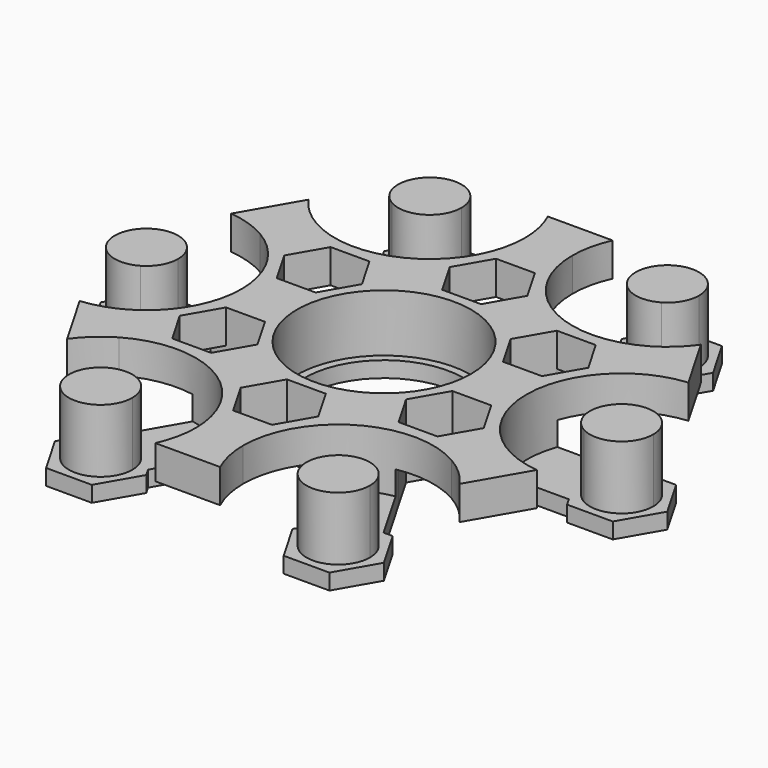
from build123d import *

# Parameters (mm, degrees)
F0_R     = 11
F0_R_2   = 10
F1_DEPTH = 2
F2_DEPTH = 7.25
F4_DEPTH = 25
F5_DEPTH = 8
F7_DEPTH = 5


with BuildPart() as f1:
    # F0 (on Top) → F1 (new body)
    with BuildSketch(Plane.XY):
        with BuildLine():
            Line((-20.5, -16.4544826719), (-21, -15.5884572681))
            ThreePointArc((-21, -15.5884572681), (-23.0780335336, -17.1069030753), (-24.7844830762, -19.0335402997))
            Line((-24.7844830762, -19.0335402997), (-24.2291065045, -19.9954807393))
            ThreePointArc((-24.2291065045, -19.9954807393), (-22.5743852182, -18.0040028363), (-20.5, -16.4544826719))
        make_face()
        with BuildLine():
            Line((-17, -22.5166604984), (-20.5, -16.4544826719))
            ThreePointArc((-20.5, -16.4544826719), (-22.5743852182, -18.0040028363), (-24.2291065045, -19.9954807393))
            Line((-24.2291065045, -19.9954807393), (-17.8867513459, -30.9807621135))
            Line((-17.8867513459, -30.9807621135), (-5.2020410289, -30.9807621135))
            ThreePointArc((-5.2020410289, -30.9807621135), (-4.304731217, -28.5519924919), (-4, -25.9807621135))
            Line((-4, -25.9807621135), (-11, -25.9807621135))
            ThreePointArc((-11, -25.9807621135), (-17, -29.4448637287), (-17, -22.5166604984))
        make_face()
        with BuildLine():
            Line((-15, -25.9807621135), (-17, -22.5166604984))
            ThreePointArc((-17, -22.5166604984), (-17, -29.4448637287), (-11, -25.9807621135))
            Line((-11, -25.9807621135), (-15, -25.9807621135))
        make_face()
        with BuildLine():
            ThreePointArc((-11, -25.9807621135), (-13, -22.5166604984), (-17, -22.5166604984))
            Line((-17, -22.5166604984), (-15, -25.9807621135))
            Line((-15, -25.9807621135), (-11, -25.9807621135))
        make_face()
        with BuildLine():
            ThreePointArc((-4, -25.9807621135), (-9.5, -16.4544826719), (-20.5, -16.4544826719))
            Line((-20.5, -16.4544826719), (-17, -22.5166604984))
            ThreePointArc((-17, -22.5166604984), (-13, -22.5166604984), (-11, -25.9807621135))
            Line((-11, -25.9807621135), (-4, -25.9807621135))
        make_face()
        with BuildLine():
            Line((-28, 3.4641016151), (-24.5, 9.5262794416))
            ThreePointArc((-24.5, 9.5262794416), (-26.8791164352, 10.5479896556), (-29.4311475334, 10.9852813742))
            Line((-29.4311475334, 10.9852813742), (-35.7735026919, 0))
            Line((-35.7735026919, 0), (-29.4311475334, -10.9852813742))
            ThreePointArc((-29.4311475334, -10.9852813742), (-26.8791164352, -10.5479896556), (-24.5, -9.5262794416))
            Line((-24.5, -9.5262794416), (-28, -3.4641016151))
            ThreePointArc((-28, -3.4641016151), (-34, 0), (-28, 3.4641016151))
        make_face()
        with BuildLine():
            ThreePointArc((-26, 0), (-26.5358983849, 2), (-28, 3.4641016151))
            Line((-28, 3.4641016151), (-30, 0))
            Line((-30, 0), (-28, -3.4641016151))
            ThreePointArc((-28, -3.4641016151), (-26.5358983849, -2), (-26, 0))
        make_face()
        with BuildLine():
            Line((-30, 0), (-28, 3.4641016151))
            ThreePointArc((-28, 3.4641016151), (-34, 0), (-28, -3.4641016151))
            Line((-28, -3.4641016151), (-30, 0))
        make_face()
        with BuildLine():
            ThreePointArc((-19, 0), (-20.4737205584, 5.5), (-24.5, 9.5262794416))
            Line((-24.5, 9.5262794416), (-28, 3.4641016151))
            ThreePointArc((-28, 3.4641016151), (-26.5358983849, 2), (-26, 0))
            ThreePointArc((-26, 0), (-26.5358983849, -2), (-28, -3.4641016151))
            Line((-28, -3.4641016151), (-24.5, -9.5262794416))
            ThreePointArc((-24.5, -9.5262794416), (-20.4737205584, -5.5), (-19, 0))
        make_face()
        with BuildLine():
            Line((3, 25.9807621135), (-3, 25.9807621135))
            ThreePointArc((-3, 25.9807621135), (-9, 15.5884572681), (-21, 15.5884572681))
            Line((-21, 15.5884572681), (-24, 10.3923048454))
            ThreePointArc((-24, 10.3923048454), (-19.6076951546, 6), (-18, 0))
            ThreePointArc((-18, 0), (-19.6076951546, -6), (-24, -10.3923048454))
            Line((-24, -10.3923048454), (-21, -15.5884572681))
            ThreePointArc((-21, -15.5884572681), (-9, -15.5884572681), (-3, -25.9807621135))
            Line((-3, -25.9807621135), (3, -25.9807621135))
            ThreePointArc((3, -25.9807621135), (9, -15.5884572681), (21, -15.5884572681))
            Line((21, -15.5884572681), (24, -10.3923048454))
            ThreePointArc((24, -10.3923048454), (18, 0), (24, 10.3923048454))
            Line((24, 10.3923048454), (21, 15.5884572681))
            ThreePointArc((21, 15.5884572681), (9, 15.5884572681), (3, 25.9807621135))
        make_face()
        Circle(F0_R, mode=Mode.SUBTRACT)
        Circle(F0_R)
        Circle(F0_R_2, mode=Mode.SUBTRACT)
        with BuildLine():
            Line((4, -25.9807621135), (3, -25.9807621135))
            ThreePointArc((3, -25.9807621135), (3.2759958765, -28.5396148471), (4.0912878854, -30.9807621135))
            Line((4.0912878854, -30.9807621135), (5.2020410289, -30.9807621135))
            ThreePointArc((5.2020410289, -30.9807621135), (4.304731217, -28.5519924919), (4, -25.9807621135))
        make_face()
        with BuildLine():
            ThreePointArc((24.2291065045, -19.9954807393), (22.5743852182, -18.0040028363), (20.5, -16.4544826719))
            Line((20.5, -16.4544826719), (17, -22.5166604984))
            ThreePointArc((17, -22.5166604984), (18.4641016151, -23.9807621135), (19, -25.9807621135))
            ThreePointArc((19, -25.9807621135), (15, -29.9807621135), (11, -25.9807621135))
            Line((11, -25.9807621135), (4, -25.9807621135))
            ThreePointArc((4, -25.9807621135), (4.304731217, -28.5519924919), (5.2020410289, -30.9807621135))
            Line((5.2020410289, -30.9807621135), (17.8867513459, -30.9807621135))
            Line((17.8867513459, -30.9807621135), (24.2291065045, -19.9954807393))
        make_face()
        with BuildLine():
            Line((17, -22.5166604984), (20.5, -16.4544826719))
            ThreePointArc((20.5, -16.4544826719), (9.5, -16.4544826719), (4, -25.9807621135))
            Line((4, -25.9807621135), (11, -25.9807621135))
            ThreePointArc((11, -25.9807621135), (13, -22.5166604984), (17, -22.5166604984))
        make_face()
        with BuildLine():
            ThreePointArc((19, -25.9807621135), (18.4641016151, -23.9807621135), (17, -22.5166604984))
            Line((17, -22.5166604984), (15, -25.9807621135))
            Line((15, -25.9807621135), (11, -25.9807621135))
            ThreePointArc((11, -25.9807621135), (15, -29.9807621135), (19, -25.9807621135))
        make_face()
        with BuildLine():
            Line((15, -25.9807621135), (17, -22.5166604984))
            ThreePointArc((17, -22.5166604984), (13, -22.5166604984), (11, -25.9807621135))
            Line((11, -25.9807621135), (15, -25.9807621135))
        make_face()
        with BuildLine():
            Line((28, 3.4641016151), (24.5, 9.5262794416))
            ThreePointArc((24.5, 9.5262794416), (19, 0), (24.5, -9.5262794416))
            Line((24.5, -9.5262794416), (28, -3.4641016151))
            ThreePointArc((28, -3.4641016151), (26, 0), (28, 3.4641016151))
        make_face()
        with BuildLine():
            ThreePointArc((29.4311475334, 10.9852813742), (26.8791164352, 10.5479896556), (24.5, 9.5262794416))
            Line((24.5, 9.5262794416), (28, 3.4641016151))
            ThreePointArc((28, 3.4641016151), (32, 3.4641016151), (34, 0))
            ThreePointArc((34, 0), (32, -3.4641016151), (28, -3.4641016151))
            Line((28, -3.4641016151), (24.5, -9.5262794416))
            ThreePointArc((24.5, -9.5262794416), (26.8791164352, -10.5479896556), (29.4311475334, -10.9852813742))
            Line((29.4311475334, -10.9852813742), (35.7735026919, 0))
            Line((35.7735026919, 0), (29.4311475334, 10.9852813742))
        make_face()
        with BuildLine():
            ThreePointArc((34, 0), (32, 3.4641016151), (28, 3.4641016151))
            Line((28, 3.4641016151), (30, 0))
            Line((30, 0), (28, -3.4641016151))
            ThreePointArc((28, -3.4641016151), (32, -3.4641016151), (34, 0))
        make_face()
        with BuildLine():
            Line((30, 0), (28, 3.4641016151))
            ThreePointArc((28, 3.4641016151), (26, 0), (28, -3.4641016151))
            Line((28, -3.4641016151), (30, 0))
        make_face()
        with BuildLine():
            ThreePointArc((5.2020410289, 30.9807621135), (4.304731217, 28.5519924919), (4, 25.9807621135))
            Line((4, 25.9807621135), (11, 25.9807621135))
            ThreePointArc((11, 25.9807621135), (15, 29.9807621135), (19, 25.9807621135))
            ThreePointArc((19, 25.9807621135), (18.4641016151, 23.9807621135), (17, 22.5166604984))
            Line((17, 22.5166604984), (20.5, 16.4544826719))
            ThreePointArc((20.5, 16.4544826719), (22.5743852182, 18.0040028363), (24.2291065045, 19.9954807393))
            Line((24.2291065045, 19.9954807393), (17.8867513459, 30.9807621135))
            Line((17.8867513459, 30.9807621135), (5.2020410289, 30.9807621135))
        make_face()
        with BuildLine():
            Line((11, 25.9807621135), (4, 25.9807621135))
            ThreePointArc((4, 25.9807621135), (9.5, 16.4544826719), (20.5, 16.4544826719))
            Line((20.5, 16.4544826719), (17, 22.5166604984))
            ThreePointArc((17, 22.5166604984), (13, 22.5166604984), (11, 25.9807621135))
        make_face()
        with BuildLine():
            Line((15, 25.9807621135), (11, 25.9807621135))
            ThreePointArc((11, 25.9807621135), (13, 22.5166604984), (17, 22.5166604984))
            Line((17, 22.5166604984), (15, 25.9807621135))
        make_face()
        with BuildLine():
            ThreePointArc((19, 25.9807621135), (15, 29.9807621135), (11, 25.9807621135))
            Line((11, 25.9807621135), (15, 25.9807621135))
            Line((15, 25.9807621135), (17, 22.5166604984))
            ThreePointArc((17, 22.5166604984), (18.4641016151, 23.9807621135), (19, 25.9807621135))
        make_face()
        with BuildLine():
            Line((-4, 25.9807621135), (-11, 25.9807621135))
            ThreePointArc((-11, 25.9807621135), (-13, 22.5166604984), (-17, 22.5166604984))
            Line((-17, 22.5166604984), (-20.5, 16.4544826719))
            ThreePointArc((-20.5, 16.4544826719), (-9.5, 16.4544826719), (-4, 25.9807621135))
        make_face()
        with BuildLine():
            Line((-24.5, 9.5262794416), (-24, 10.3923048454))
            ThreePointArc((-24, 10.3923048454), (-26.3540294101, 11.4327117718), (-28.8757709616, 11.9472218138))
            Line((-28.8757709616, 11.9472218138), (-29.4311475334, 10.9852813742))
            ThreePointArc((-29.4311475334, 10.9852813742), (-26.8791164352, 10.5479896556), (-24.5, 9.5262794416))
        make_face()
        with BuildLine():
            ThreePointArc((-17, 22.5166604984), (-17, 29.4448637287), (-11, 25.9807621135))
            Line((-11, 25.9807621135), (-4, 25.9807621135))
            ThreePointArc((-4, 25.9807621135), (-4.304731217, 28.5519924919), (-5.2020410289, 30.9807621135))
            Line((-5.2020410289, 30.9807621135), (-17.8867513459, 30.9807621135))
            Line((-17.8867513459, 30.9807621135), (-24.2291065045, 19.9954807393))
            ThreePointArc((-24.2291065045, 19.9954807393), (-22.5743852182, 18.0040028363), (-20.5, 16.4544826719))
            Line((-20.5, 16.4544826719), (-17, 22.5166604984))
        make_face()
        with BuildLine():
            Line((-11, 25.9807621135), (-15, 25.9807621135))
            Line((-15, 25.9807621135), (-17, 22.5166604984))
            ThreePointArc((-17, 22.5166604984), (-13, 22.5166604984), (-11, 25.9807621135))
        make_face()
        with BuildLine():
            Line((-17, 22.5166604984), (-15, 25.9807621135))
            Line((-15, 25.9807621135), (-11, 25.9807621135))
            ThreePointArc((-11, 25.9807621135), (-17, 29.4448637287), (-17, 22.5166604984))
        make_face()
        with BuildLine():
            ThreePointArc((-5.2020410289, 30.9807621135), (-4.304731217, 28.5519924919), (-4, 25.9807621135))
            Line((-4, 25.9807621135), (-3, 25.9807621135))
            ThreePointArc((-3, 25.9807621135), (-3.2759958765, 28.5396148471), (-4.0912878854, 30.9807621135))
            Line((-4.0912878854, 30.9807621135), (-5.2020410289, 30.9807621135))
        make_face()
        with BuildLine():
            Line((20.5, 16.4544826719), (21, 15.5884572681))
            ThreePointArc((21, 15.5884572681), (23.0780335336, 17.1069030753), (24.7844830762, 19.0335402997))
            Line((24.7844830762, 19.0335402997), (24.2291065045, 19.9954807393))
            ThreePointArc((24.2291065045, 19.9954807393), (22.5743852182, 18.0040028363), (20.5, 16.4544826719))
        make_face()
        with BuildLine():
            Line((24.5, -9.5262794416), (24, -10.3923048454))
            ThreePointArc((24, -10.3923048454), (26.3540294101, -11.4327117718), (28.8757709616, -11.9472218138))
            Line((28.8757709616, -11.9472218138), (29.4311475334, -10.9852813742))
            ThreePointArc((29.4311475334, -10.9852813742), (26.8791164352, -10.5479896556), (24.5, -9.5262794416))
        make_face()
        with BuildLine():
            ThreePointArc((-18, 0), (-19.6076951546, 6), (-24, 10.3923048454))
            Line((-24, 10.3923048454), (-24.5, 9.5262794416))
            ThreePointArc((-24.5, 9.5262794416), (-20.4737205584, 5.5), (-19, 0))
            ThreePointArc((-19, 0), (-20.4737205584, -5.5), (-24.5, -9.5262794416))
            Line((-24.5, -9.5262794416), (-24, -10.3923048454))
            ThreePointArc((-24, -10.3923048454), (-19.6076951546, -6), (-18, 0))
        make_face()
        with BuildLine():
            Line((-3, 25.9807621135), (-4, 25.9807621135))
            ThreePointArc((-4, 25.9807621135), (-9.5, 16.4544826719), (-20.5, 16.4544826719))
            Line((-20.5, 16.4544826719), (-21, 15.5884572681))
            ThreePointArc((-21, 15.5884572681), (-9, 15.5884572681), (-3, 25.9807621135))
        make_face()
        with BuildLine():
            ThreePointArc((-3, -25.9807621135), (-9, -15.5884572681), (-21, -15.5884572681))
            Line((-21, -15.5884572681), (-20.5, -16.4544826719))
            ThreePointArc((-20.5, -16.4544826719), (-9.5, -16.4544826719), (-4, -25.9807621135))
            Line((-4, -25.9807621135), (-3, -25.9807621135))
        make_face()
        with BuildLine():
            Line((20.5, -16.4544826719), (21, -15.5884572681))
            ThreePointArc((21, -15.5884572681), (9, -15.5884572681), (3, -25.9807621135))
            Line((3, -25.9807621135), (4, -25.9807621135))
            ThreePointArc((4, -25.9807621135), (9.5, -16.4544826719), (20.5, -16.4544826719))
        make_face()
        with BuildLine():
            Line((24.5, 9.5262794416), (24, 10.3923048454))
            ThreePointArc((24, 10.3923048454), (18, 0), (24, -10.3923048454))
            Line((24, -10.3923048454), (24.5, -9.5262794416))
            ThreePointArc((24.5, -9.5262794416), (19, 0), (24.5, 9.5262794416))
        make_face()
        with BuildLine():
            Line((4, 25.9807621135), (3, 25.9807621135))
            ThreePointArc((3, 25.9807621135), (9, 15.5884572681), (21, 15.5884572681))
            Line((21, 15.5884572681), (20.5, 16.4544826719))
            ThreePointArc((20.5, 16.4544826719), (9.5, 16.4544826719), (4, 25.9807621135))
        make_face()
        with BuildLine():
            ThreePointArc((-4.0912878854, 30.9807621135), (-3.2759958765, 28.5396148471), (-3, 25.9807621135))
            Line((-3, 25.9807621135), (3, 25.9807621135))
            ThreePointArc((3, 25.9807621135), (3.2759958765, 28.5396148471), (4.0912878854, 30.9807621135))
            Line((4.0912878854, 30.9807621135), (-4.0912878854, 30.9807621135))
        make_face()
        with BuildLine():
            Line((-24, 10.3923048454), (-21, 15.5884572681))
            ThreePointArc((-21, 15.5884572681), (-23.0780335336, 17.1069030753), (-24.7844830762, 19.0335402997))
            Line((-24.7844830762, 19.0335402997), (-28.8757709616, 11.9472218138))
            ThreePointArc((-28.8757709616, 11.9472218138), (-26.3540294101, 11.4327117718), (-24, 10.3923048454))
        make_face()
        with BuildLine():
            Line((-21, -15.5884572681), (-24, -10.3923048454))
            ThreePointArc((-24, -10.3923048454), (-26.3540294101, -11.4327117718), (-28.8757709616, -11.9472218138))
            Line((-28.8757709616, -11.9472218138), (-24.7844830762, -19.0335402997))
            ThreePointArc((-24.7844830762, -19.0335402997), (-23.0780335336, -17.1069030753), (-21, -15.5884572681))
        make_face()
        with BuildLine():
            Line((3, -25.9807621135), (-3, -25.9807621135))
            ThreePointArc((-3, -25.9807621135), (-3.2759958765, -28.5396148471), (-4.0912878854, -30.9807621135))
            Line((-4.0912878854, -30.9807621135), (4.0912878854, -30.9807621135))
            ThreePointArc((4.0912878854, -30.9807621135), (3.2759958765, -28.5396148471), (3, -25.9807621135))
        make_face()
        with BuildLine():
            ThreePointArc((28.8757709616, -11.9472218138), (26.3540294101, -11.4327117718), (24, -10.3923048454))
            Line((24, -10.3923048454), (21, -15.5884572681))
            ThreePointArc((21, -15.5884572681), (23.0780335336, -17.1069030753), (24.7844830762, -19.0335402997))
            Line((24.7844830762, -19.0335402997), (28.8757709616, -11.9472218138))
        make_face()
        with BuildLine():
            ThreePointArc((24.7844830762, 19.0335402997), (23.0780335336, 17.1069030753), (21, 15.5884572681))
            Line((21, 15.5884572681), (24, 10.3923048454))
            ThreePointArc((24, 10.3923048454), (26.3540294101, 11.4327117718), (28.8757709616, 11.9472218138))
            Line((28.8757709616, 11.9472218138), (24.7844830762, 19.0335402997))
        make_face()
        with BuildLine():
            ThreePointArc((4.0912878854, 30.9807621135), (3.2759958765, 28.5396148471), (3, 25.9807621135))
            Line((3, 25.9807621135), (4, 25.9807621135))
            ThreePointArc((4, 25.9807621135), (4.304731217, 28.5519924919), (5.2020410289, 30.9807621135))
            Line((5.2020410289, 30.9807621135), (4.0912878854, 30.9807621135))
        make_face()
        with BuildLine():
            Line((-21, 15.5884572681), (-20.5, 16.4544826719))
            ThreePointArc((-20.5, 16.4544826719), (-22.5743852182, 18.0040028363), (-24.2291065045, 19.9954807393))
            Line((-24.2291065045, 19.9954807393), (-24.7844830762, 19.0335402997))
            ThreePointArc((-24.7844830762, 19.0335402997), (-23.0780335336, 17.1069030753), (-21, 15.5884572681))
        make_face()
        with BuildLine():
            ThreePointArc((-28.8757709616, -11.9472218138), (-26.3540294101, -11.4327117718), (-24, -10.3923048454))
            Line((-24, -10.3923048454), (-24.5, -9.5262794416))
            ThreePointArc((-24.5, -9.5262794416), (-26.8791164352, -10.5479896556), (-29.4311475334, -10.9852813742))
            Line((-29.4311475334, -10.9852813742), (-28.8757709616, -11.9472218138))
        make_face()
        with BuildLine():
            ThreePointArc((-4.0912878854, -30.9807621135), (-3.2759958765, -28.5396148471), (-3, -25.9807621135))
            Line((-3, -25.9807621135), (-4, -25.9807621135))
            ThreePointArc((-4, -25.9807621135), (-4.304731217, -28.5519924919), (-5.2020410289, -30.9807621135))
            Line((-5.2020410289, -30.9807621135), (-4.0912878854, -30.9807621135))
        make_face()
        with BuildLine():
            ThreePointArc((24.7844830762, -19.0335402997), (23.0780335336, -17.1069030753), (21, -15.5884572681))
            Line((21, -15.5884572681), (20.5, -16.4544826719))
            ThreePointArc((20.5, -16.4544826719), (22.5743852182, -18.0040028363), (24.2291065045, -19.9954807393))
            Line((24.2291065045, -19.9954807393), (24.7844830762, -19.0335402997))
        make_face()
        with BuildLine():
            ThreePointArc((28.8757709616, 11.9472218138), (26.3540294101, 11.4327117718), (24, 10.3923048454))
            Line((24, 10.3923048454), (24.5, 9.5262794416))
            ThreePointArc((24.5, 9.5262794416), (26.8791164352, 10.5479896556), (29.4311475334, 10.9852813742))
            Line((29.4311475334, 10.9852813742), (28.8757709616, 11.9472218138))
        make_face()
    extrude(amount=-F1_DEPTH)

    # F0 (on Top) → F2 (join)
    with BuildSketch(Plane.XY):
        with BuildLine():
            Line((3, 25.9807621135), (-3, 25.9807621135))
            ThreePointArc((-3, 25.9807621135), (-9, 15.5884572681), (-21, 15.5884572681))
            Line((-21, 15.5884572681), (-24, 10.3923048454))
            ThreePointArc((-24, 10.3923048454), (-19.6076951546, 6), (-18, 0))
            ThreePointArc((-18, 0), (-19.6076951546, -6), (-24, -10.3923048454))
            Line((-24, -10.3923048454), (-21, -15.5884572681))
            ThreePointArc((-21, -15.5884572681), (-9, -15.5884572681), (-3, -25.9807621135))
            Line((-3, -25.9807621135), (3, -25.9807621135))
            ThreePointArc((3, -25.9807621135), (9, -15.5884572681), (21, -15.5884572681))
            Line((21, -15.5884572681), (24, -10.3923048454))
            ThreePointArc((24, -10.3923048454), (18, 0), (24, 10.3923048454))
            Line((24, 10.3923048454), (21, 15.5884572681))
            ThreePointArc((21, 15.5884572681), (9, 15.5884572681), (3, 25.9807621135))
        make_face()
        Circle(F0_R, mode=Mode.SUBTRACT)
        with BuildLine():
            Line((-24, 10.3923048454), (-21, 15.5884572681))
            ThreePointArc((-21, 15.5884572681), (-23.0780335336, 17.1069030753), (-24.7844830762, 19.0335402997))
            Line((-24.7844830762, 19.0335402997), (-28.8757709616, 11.9472218138))
            ThreePointArc((-28.8757709616, 11.9472218138), (-26.3540294101, 11.4327117718), (-24, 10.3923048454))
        make_face()
        with BuildLine():
            ThreePointArc((-4.0912878854, 30.9807621135), (-3.2759958765, 28.5396148471), (-3, 25.9807621135))
            Line((-3, 25.9807621135), (3, 25.9807621135))
            ThreePointArc((3, 25.9807621135), (3.2759958765, 28.5396148471), (4.0912878854, 30.9807621135))
            Line((4.0912878854, 30.9807621135), (-4.0912878854, 30.9807621135))
        make_face()
        with BuildLine():
            ThreePointArc((24.7844830762, 19.0335402997), (23.0780335336, 17.1069030753), (21, 15.5884572681))
            Line((21, 15.5884572681), (24, 10.3923048454))
            ThreePointArc((24, 10.3923048454), (26.3540294101, 11.4327117718), (28.8757709616, 11.9472218138))
            Line((28.8757709616, 11.9472218138), (24.7844830762, 19.0335402997))
        make_face()
        with BuildLine():
            ThreePointArc((28.8757709616, -11.9472218138), (26.3540294101, -11.4327117718), (24, -10.3923048454))
            Line((24, -10.3923048454), (21, -15.5884572681))
            ThreePointArc((21, -15.5884572681), (23.0780335336, -17.1069030753), (24.7844830762, -19.0335402997))
            Line((24.7844830762, -19.0335402997), (28.8757709616, -11.9472218138))
        make_face()
        with BuildLine():
            Line((3, -25.9807621135), (-3, -25.9807621135))
            ThreePointArc((-3, -25.9807621135), (-3.2759958765, -28.5396148471), (-4.0912878854, -30.9807621135))
            Line((-4.0912878854, -30.9807621135), (4.0912878854, -30.9807621135))
            ThreePointArc((4.0912878854, -30.9807621135), (3.2759958765, -28.5396148471), (3, -25.9807621135))
        make_face()
        with BuildLine():
            Line((-21, -15.5884572681), (-24, -10.3923048454))
            ThreePointArc((-24, -10.3923048454), (-26.3540294101, -11.4327117718), (-28.8757709616, -11.9472218138))
            Line((-28.8757709616, -11.9472218138), (-24.7844830762, -19.0335402997))
            ThreePointArc((-24.7844830762, -19.0335402997), (-23.0780335336, -17.1069030753), (-21, -15.5884572681))
        make_face()
    extrude(amount=F2_DEPTH)

    # F3 (on face) → F4 (cut)
    with BuildSketch(Plane.XY.offset(7.25)):
        Polygon((-11.8356805184, 4), (-9.3819418743, 8.25), (-11.8356805184, 12.5), (-16.7431578065, 12.5), (-19.1968964506, 8.25), (-16.7431578065, 4), align=None)
        Polygon((-16.7431578065, -4), (-19.1968964506, -8.25), (-16.7431578065, -12.5), (-11.8356805184, -12.5), (-9.3819418743, -8.25), (-11.8356805184, -4), align=None)
        Polygon((-4.9074772881, -16.5), (-2.4537386441, -20.75), (2.4537386441, -20.75), (4.9074772881, -16.5), (2.4537386441, -12.25), (-2.4537386441, -12.25), align=None)
        Polygon((11.8356805184, -12.5), (16.7431578065, -12.5), (19.1968964506, -8.25), (16.7431578065, -4), (11.8356805184, -4), (9.3819418743, -8.25), align=None)
        Polygon((16.7431578065, 4), (19.1968964506, 8.25), (16.7431578065, 12.5), (11.8356805184, 12.5), (9.3819418743, 8.25), (11.8356805184, 4), align=None)
        Polygon((4.9074772881, 16.5), (2.4537386441, 20.75), (-2.4537386441, 20.75), (-4.9074772881, 16.5), (-2.4537386441, 12.25), (2.4537386441, 12.25), align=None)
    extrude(amount=-F4_DEPTH, mode=Mode.SUBTRACT)

    # F0 (on Top) → F5 (join)
    with BuildSketch(Plane.XY):
        with BuildLine():
            Line((-11, 25.9807621135), (-15, 25.9807621135))
            Line((-15, 25.9807621135), (-17, 22.5166604984))
            ThreePointArc((-17, 22.5166604984), (-13, 22.5166604984), (-11, 25.9807621135))
        make_face()
        with BuildLine():
            Line((-17, 22.5166604984), (-15, 25.9807621135))
            Line((-15, 25.9807621135), (-11, 25.9807621135))
            ThreePointArc((-11, 25.9807621135), (-17, 29.4448637287), (-17, 22.5166604984))
        make_face()
        with BuildLine():
            Line((15, 25.9807621135), (11, 25.9807621135))
            ThreePointArc((11, 25.9807621135), (13, 22.5166604984), (17, 22.5166604984))
            Line((17, 22.5166604984), (15, 25.9807621135))
        make_face()
        with BuildLine():
            ThreePointArc((19, 25.9807621135), (15, 29.9807621135), (11, 25.9807621135))
            Line((11, 25.9807621135), (15, 25.9807621135))
            Line((15, 25.9807621135), (17, 22.5166604984))
            ThreePointArc((17, 22.5166604984), (18.4641016151, 23.9807621135), (19, 25.9807621135))
        make_face()
        with BuildLine():
            ThreePointArc((34, 0), (32, 3.4641016151), (28, 3.4641016151))
            Line((28, 3.4641016151), (30, 0))
            Line((30, 0), (28, -3.4641016151))
            ThreePointArc((28, -3.4641016151), (32, -3.4641016151), (34, 0))
        make_face()
        with BuildLine():
            Line((30, 0), (28, 3.4641016151))
            ThreePointArc((28, 3.4641016151), (26, 0), (28, -3.4641016151))
            Line((28, -3.4641016151), (30, 0))
        make_face()
        with BuildLine():
            ThreePointArc((-26, 0), (-26.5358983849, 2), (-28, 3.4641016151))
            Line((-28, 3.4641016151), (-30, 0))
            Line((-30, 0), (-28, -3.4641016151))
            ThreePointArc((-28, -3.4641016151), (-26.5358983849, -2), (-26, 0))
        make_face()
        with BuildLine():
            Line((-30, 0), (-28, 3.4641016151))
            ThreePointArc((-28, 3.4641016151), (-34, 0), (-28, -3.4641016151))
            Line((-28, -3.4641016151), (-30, 0))
        make_face()
        with BuildLine():
            Line((-15, -25.9807621135), (-17, -22.5166604984))
            ThreePointArc((-17, -22.5166604984), (-17, -29.4448637287), (-11, -25.9807621135))
            Line((-11, -25.9807621135), (-15, -25.9807621135))
        make_face()
        with BuildLine():
            ThreePointArc((-11, -25.9807621135), (-13, -22.5166604984), (-17, -22.5166604984))
            Line((-17, -22.5166604984), (-15, -25.9807621135))
            Line((-15, -25.9807621135), (-11, -25.9807621135))
        make_face()
        with BuildLine():
            Line((15, -25.9807621135), (17, -22.5166604984))
            ThreePointArc((17, -22.5166604984), (13, -22.5166604984), (11, -25.9807621135))
            Line((11, -25.9807621135), (15, -25.9807621135))
        make_face()
        with BuildLine():
            ThreePointArc((19, -25.9807621135), (18.4641016151, -23.9807621135), (17, -22.5166604984))
            Line((17, -22.5166604984), (15, -25.9807621135))
            Line((15, -25.9807621135), (11, -25.9807621135))
            ThreePointArc((11, -25.9807621135), (15, -29.9807621135), (19, -25.9807621135))
        make_face()
    extrude(amount=F5_DEPTH)

    # F6 (on face) → F7 (cut)
    with BuildSketch(Plane(origin=(0, 0, -2), x_dir=(1, 0, 0), z_dir=(0, 0, -1))):
        Polygon((-20.7735026919, 25.9807621135), (-32.8867513459, 5), (-27.1132486541, 5), (-26.5358983849, 4), (-16.7431578065, 4), (-19.1968964506, 8.25), (-16.7431578065, 12.5), (-11.8356805184, 12.5), (-16.7320508076, 20.9807621135), (-17.8867513459, 20.9807621135), align=None)
        Polygon((12.1132486541, 30.9807621135), (-12.1132486541, 30.9807621135), (-9.2264973081, 25.9807621135), (-9.8038475773, 24.9807621135), (-4.9074772881, 16.5), (-2.4537386441, 20.75), (2.4537386441, 20.75), (4.9074772881, 16.5), (9.8038475773, 24.9807621135), (9.2264973081, 25.9807621135), align=None)
        Polygon((32.8867513459, 5), (20.7735026919, 25.9807621135), (17.8867513459, 20.9807621135), (16.7320508076, 20.9807621135), (11.8356805184, 12.5), (16.7431578065, 12.5), (19.1968964506, 8.25), (16.7431578065, 4), (26.5358983849, 4), (27.1132486541, 5), align=None)
        Polygon((17.8867513459, -20.9807621135), (20.7735026919, -25.9807621135), (32.8867513459, -5), (27.1132486541, -5), (26.5358983849, -4), (16.7431578065, -4), (19.1968964506, -8.25), (16.7431578065, -12.5), (11.8356805184, -12.5), (16.7320508076, -20.9807621135), align=None)
        Polygon((-9.2264973081, -25.9807621135), (-12.1132486541, -30.9807621135), (12.1132486541, -30.9807621135), (9.2264973081, -25.9807621135), (9.8038475773, -24.9807621135), (4.9074772881, -16.5), (2.4537386441, -20.75), (-2.4537386441, -20.75), (-4.9074772881, -16.5), (-9.8038475773, -24.9807621135), align=None)
        Polygon((-27.1132486541, -5), (-32.8867513459, -5), (-20.7735026919, -25.9807621135), (-17.8867513459, -20.9807621135), (-16.7320508076, -20.9807621135), (-11.8356805184, -12.5), (-16.7431578065, -12.5), (-19.1968964506, -8.25), (-16.7431578065, -4), (-26.5358983849, -4), align=None)
    extrude(amount=-F7_DEPTH, mode=Mode.SUBTRACT)


solid = f1.part
